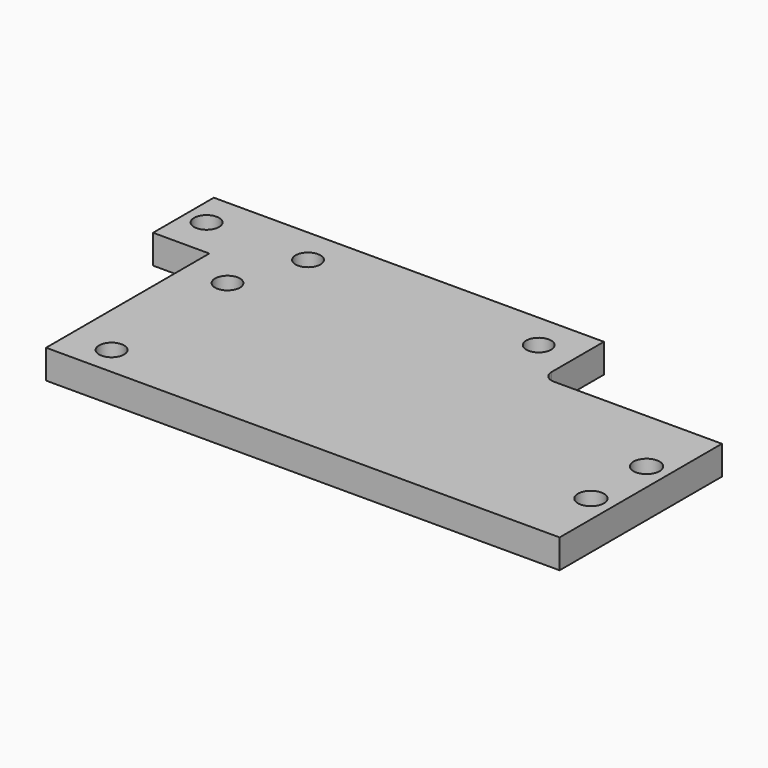
from build123d import *

# Parameters (mm, degrees)
SKETCH_R        = 4.3
SKETCH_R_2      = 2.8
PAD_DEPTH       = 10
SKETCH001_R     = 4.5
POCKET_DEPTH    = 5
FILLET_R        = 4
SKETCH002_R     = 4.3
POCKET001_DEPTH = 10.001


with BuildPart() as part:
    # Sketch → Pad (new body)
    with BuildSketch(Plane.XY):
        Polygon((0.4, 0), (177.6, 0), (177.6, 70), (115.6, 70), (115.6, 96.6), (-19, 96.6), (-19, 70.4), (0.4, 70.4), align=None)
        with Locations((15, 60)):
            Circle(SKETCH_R, mode=Mode.SUBTRACT)
        with Locations((15, 10)):
            Circle(SKETCH_R, mode=Mode.SUBTRACT)
        with Locations((170, 47)):
            Circle(SKETCH_R_2, mode=Mode.SUBTRACT)
        with Locations((170, 23)):
            Circle(SKETCH_R_2, mode=Mode.SUBTRACT)
    extrude(amount=PAD_DEPTH)

    # Sketch001 (on Face14 of Pad) → Pocket (cut)
    with BuildSketch(Plane.XY.offset(10)):
        with Locations((170, 47)):
            Circle(SKETCH001_R)
        with Locations((170, 23)):
            Circle(SKETCH001_R)
    extrude(amount=-POCKET_DEPTH, mode=Mode.SUBTRACT)

    # Fillet
    fillet_edges = [part.edges().sort_by_distance(p)[0] for p in [
        (115.6, 70, 5),
    ]]
    fillet(fillet_edges, radius=FILLET_R)

    # Sketch002 (on Face15 of Fillet) → Pocket001 (cut, through all)
    with BuildSketch(Plane.XY.offset(10)):
        with Locations((-11.5, 84.1)):
            Circle(SKETCH002_R)
        with Locations((23.5, 84.1)):
            Circle(SKETCH002_R)
        with Locations((103.1, 84.1)):
            Circle(SKETCH002_R)
    extrude(amount=-POCKET001_DEPTH, mode=Mode.SUBTRACT)


solid = part.part
